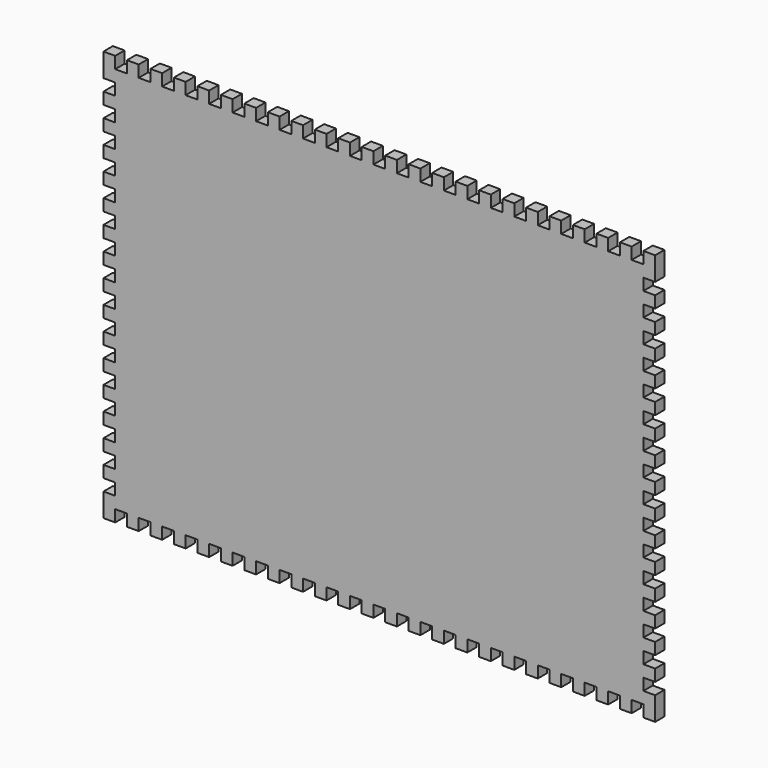
from build123d import *

# Parameters (mm, degrees)
F1_DEPTH = 12.7


with BuildPart() as f1:
    # F0 (on Front) → F1 (new body)
    with BuildSketch(Plane.XZ):
        Polygon((12.7, 0), (12.7, 12.7), (25.4, 12.7), (25.4, 0), (38.1, 0), (38.1, 12.7), (50.8, 12.7), (50.8, 0), (63.5, 0), (63.5, 12.7), (76.2, 12.7), (76.2, 0), (88.9, 0), (88.9, 12.7), (101.6, 12.7), (101.6, 0), (114.3, 0), (114.3, 12.7), (127, 12.7), (127, 0), (139.7, 0), (139.7, 12.7), (152.4, 12.7), (152.4, 0), (165.1, 0), (165.1, 12.7), (177.8, 12.7), (177.8, 0), (190.5, 0), (190.5, 12.7), (203.2, 12.7), (203.2, 0), (215.9, 0), (215.9, 12.7), (228.6, 12.7), (228.6, 0), (241.3, 0), (241.3, 12.7), (254, 12.7), (254, 0), (266.7, 0), (266.7, 12.7), (279.4, 12.7), (279.4, 0), (292.1, 0), (292.1, 12.7), (304.8, 12.7), (304.8, 0), (317.5, 0), (317.5, 12.7), (330.2, 12.7), (330.2, 0), (342.9, 0), (342.9, 12.7), (355.6, 12.7), (355.6, 0), (368.3, 0), (368.3, 12.7), (381, 12.7), (381, 0), (393.7, 0), (393.7, 12.7), (406.4, 12.7), (406.4, 0), (419.1, 0), (419.1, 12.7), (431.8, 12.7), (431.8, 0), (444.5, 0), (444.5, 12.7), (457.2, 12.7), (457.2, 0), (469.9, 0), (469.9, 12.7), (482.6, 12.7), (482.6, 0), (495.3, 0), (495.3, 12.7), (508, 12.7), (508, 0), (520.7, 0), (520.7, 12.7), (533.4, 12.7), (533.4, 0), (546.1, 0), (546.1, 12.7), (558.8, 12.7), (558.8, 0), (571.5, 0), (571.5, 12.7), (584.2, 12.7), (584.2, 0), (596.9, 0), (596.9, 25.4), (584.2, 25.4), (584.2, 38.1), (596.9, 38.1), (596.9, 50.8), (584.2, 50.8), (584.2, 63.5), (596.9, 63.5), (596.9, 76.2), (584.2, 76.2), (584.2, 88.9), (596.9, 88.9), (596.9, 101.6), (584.2, 101.6), (584.2, 114.3), (596.9, 114.3), (596.9, 127), (584.2, 127), (584.2, 139.7), (596.9, 139.7), (596.9, 152.4), (584.2, 152.4), (584.2, 165.1), (596.9, 165.1), (596.9, 177.8), (584.2, 177.8), (584.2, 190.5), (596.9, 190.5), (596.9, 203.2), (584.2, 203.2), (584.2, 215.9), (596.9, 215.9), (596.9, 228.6), (584.2, 228.6), (584.2, 241.3), (596.9, 241.3), (596.9, 254), (584.2, 254), (584.2, 266.7), (596.9, 266.7), (596.9, 279.4), (584.2, 279.4), (584.2, 292.1), (596.9, 292.1), (596.9, 304.8), (584.2, 304.8), (584.2, 317.5), (596.9, 317.5), (596.9, 330.2), (584.2, 330.2), (584.2, 342.9), (596.9, 342.9), (596.9, 355.6), (584.2, 355.6), (584.2, 368.3), (596.9, 368.3), (596.9, 381), (584.2, 381), (584.2, 393.7), (596.9, 393.7), (596.9, 406.4), (584.2, 406.4), (584.2, 419.1), (596.9, 419.1), (596.9, 444.5), (584.2, 444.5), (584.2, 431.8), (571.5, 431.8), (571.5, 444.5), (558.8, 444.5), (558.8, 431.8), (546.1, 431.8), (546.1, 444.5), (533.4, 444.5), (533.4, 431.8), (520.7, 431.8), (520.7, 444.5), (508, 444.5), (508, 431.8), (495.3, 431.8), (495.3, 444.5), (482.6, 444.5), (482.6, 431.8), (469.9, 431.8), (469.9, 444.5), (457.2, 444.5), (457.2, 431.8), (444.5, 431.8), (444.5, 444.5), (431.8, 444.5), (431.8, 431.8), (419.1, 431.8), (419.1, 444.5), (406.4, 444.5), (406.4, 431.8), (393.7, 431.8), (393.7, 444.5), (381, 444.5), (381, 431.8), (368.3, 431.8), (368.3, 444.5), (355.6, 444.5), (355.6, 431.8), (342.9, 431.8), (342.9, 444.5), (330.2, 444.5), (330.2, 431.8), (317.5, 431.8), (317.5, 444.5), (304.8, 444.5), (304.8, 431.8), (292.1, 431.8), (292.1, 444.5), (279.4, 444.5), (279.4, 431.8), (266.7, 431.8), (266.7, 444.5), (254, 444.5), (254, 431.8), (241.3, 431.8), (241.3, 444.5), (228.6, 444.5), (228.6, 431.8), (215.9, 431.8), (215.9, 444.5), (203.2, 444.5), (203.2, 431.8), (190.5, 431.8), (190.5, 444.5), (177.8, 444.5), (177.8, 431.8), (165.1, 431.8), (165.1, 444.5), (152.4, 444.5), (152.4, 431.8), (139.7, 431.8), (139.7, 444.5), (127, 444.5), (127, 431.8), (114.3, 431.8), (114.3, 444.5), (101.6, 444.5), (101.6, 431.8), (88.9, 431.8), (88.9, 444.5), (76.2, 444.5), (76.2, 431.8), (63.5, 431.8), (63.5, 444.5), (50.8, 444.5), (50.8, 431.8), (38.1, 431.8), (38.1, 444.5), (25.4, 444.5), (25.4, 431.8), (12.7, 431.8), (12.7, 444.5), (0, 444.5), (0, 419.1), (12.7, 419.1), (12.7, 406.4), (0, 406.4), (0, 393.7), (12.7, 393.7), (12.7, 381), (0, 381), (0, 368.3), (12.7, 368.3), (12.7, 355.6), (0, 355.6), (0, 342.9), (12.7, 342.9), (12.7, 330.2), (0, 330.2), (0, 317.5), (12.7, 317.5), (12.7, 304.8), (0, 304.8), (0, 292.1), (12.7, 292.1), (12.7, 279.4), (0, 279.4), (0, 266.7), (12.7, 266.7), (12.7, 254), (0, 254), (0, 241.3), (12.7, 241.3), (12.7, 228.6), (0, 228.6), (0, 215.9), (12.7, 215.9), (12.7, 203.2), (0, 203.2), (0, 190.5), (12.7, 190.5), (12.7, 177.8), (0, 177.8), (0, 165.1), (12.7, 165.1), (12.7, 152.4), (0, 152.4), (0, 139.7), (12.7, 139.7), (12.7, 127), (0, 127), (0, 114.3), (12.7, 114.3), (12.7, 101.6), (0, 101.6), (0, 88.9), (12.7, 88.9), (12.7, 76.2), (0, 76.2), (0, 63.5), (12.7, 63.5), (12.7, 50.8), (0, 50.8), (0, 38.1), (12.7, 38.1), (12.7, 25.4), (0, 25.4), (0, 0), align=None)
    extrude(amount=-F1_DEPTH)


solid = f1.part
